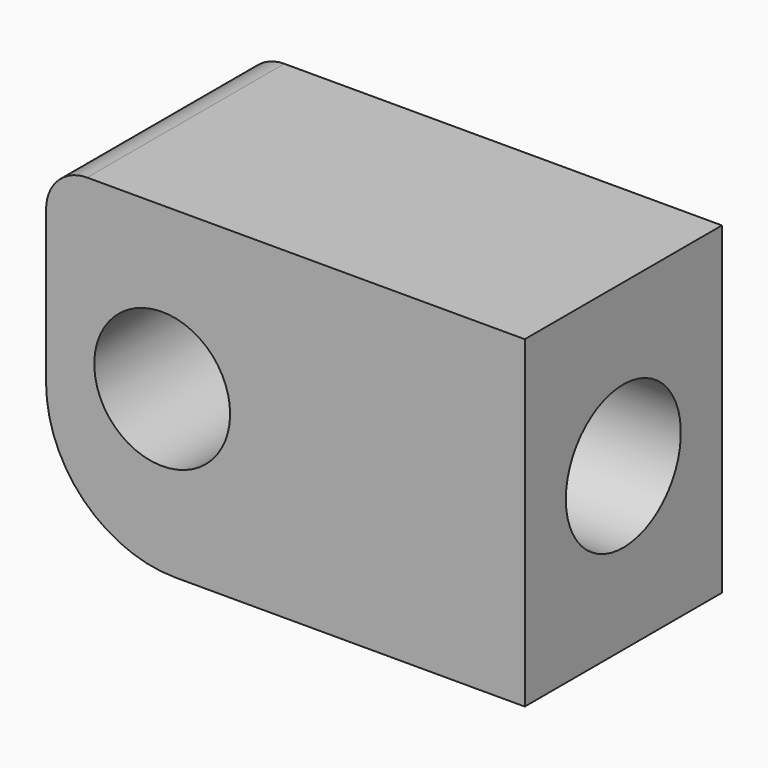
from build123d import *

# Parameters (mm, degrees)
F0_W     = 37
F0_H     = 25
F2_DEPTH = 9.525
F1_R     = 5.25
F3_DEPTH = 12.5
F4_R     = 10
F6_D     = 11.1125
F6_DEPTH = 17.4625
F6_TIP   = 3.3385318145
F7_R     = 3.175


with BuildPart() as f2:
    # F0 (on Front) → F2 (new body, symmetric)
    with BuildSketch(Plane.XZ):
        Rectangle(F0_W, F0_H)
    extrude(amount=F2_DEPTH, both=True)

    # F1 (on Front) → F3 (cut, symmetric)
    with BuildSketch(Plane.XZ):
        with Locations((-9.525, 0)):
            Circle(F1_R)
    extrude(amount=F3_DEPTH, both=True, mode=Mode.SUBTRACT)

    # F4
    f4_edges = [f2.edges().sort_by_distance(p)[0] for p in [
        (-18.5, 0, -12.5),
    ]]
    fillet(f4_edges, radius=F4_R)

    # F6
    with Locations(Plane.YZ.offset(18.5)):
        with Locations((0, 0)):
            Hole(F6_D / 2, depth=F6_DEPTH)
            with Locations((0, 0, -(F6_DEPTH + F6_TIP / 2))):  # 118° drill point
                Cone(0, F6_D / 2, F6_TIP, mode=Mode.SUBTRACT)

    # F7
    f7_edges = [f2.edges().sort_by_distance(p)[0] for p in [
        (-18.5, 0, 12.5),
    ]]
    fillet(f7_edges, radius=F7_R)


solid = f2.part
